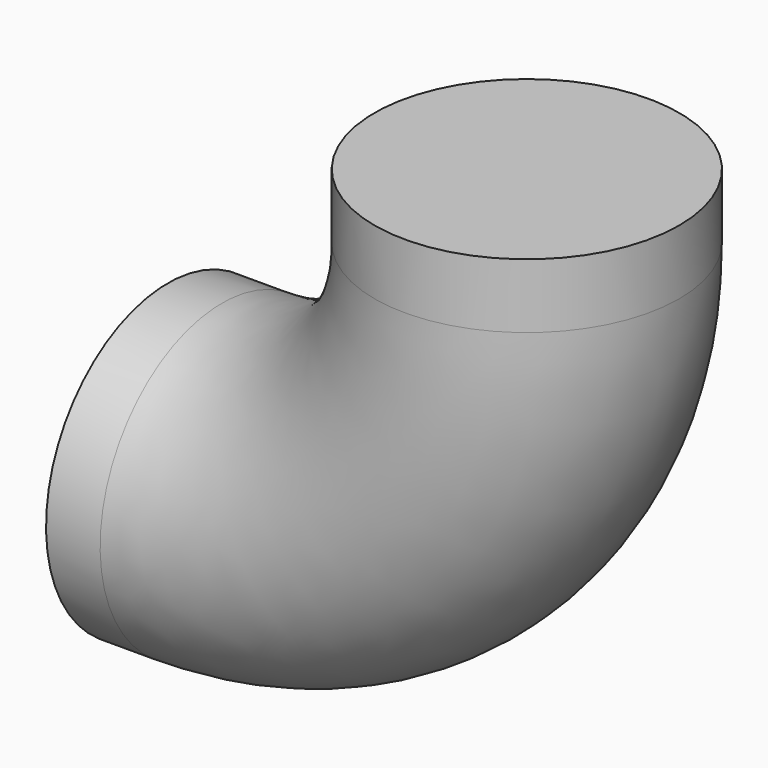
from build123d import *

# Parameters (mm, degrees)
F2_R = 6.35


with BuildPart() as f3:
    # F3: sweep along a path in F0
    with BuildLine(Plane.XZ) as f3_path:
        Line((-14.9541208521, 0), (-12.7, 0))
        ThreePointArc((-12.7, 0), (-3.7197438789, 3.7197438789), (0, 12.7))
        Line((0, 12.7), (0, 15.3907369822))
    # F2 (on plane+point) → F3 (sweep)
    with BuildSketch(Plane.XY.offset(15.3907369822)):
        Circle(F2_R)
    sweep(path=f3_path.line)


solid = f3.part
